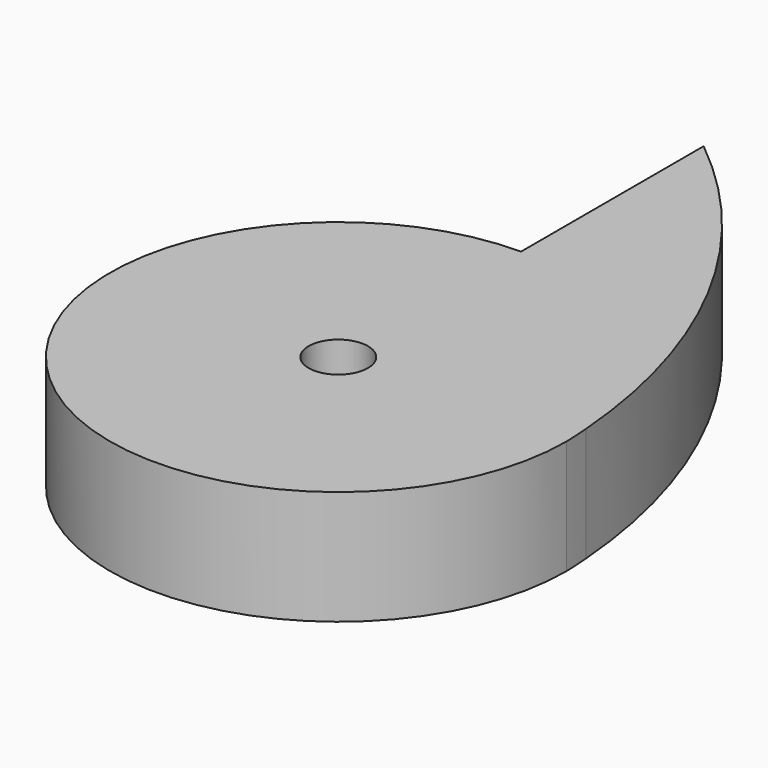
from build123d import *

# Parameters (mm, degrees)
F1_DEPTH = 12.7
F2_R     = 3.302
F3_DEPTH = 25.4


with BuildPart() as f1:
    # F0 (on Top) → F1 (new body)
    with BuildSketch(Plane.XY):
        with BuildLine():
            ThreePointArc((25.232093, 2.915727), (16.898233, 18.963379), (0, 25.4))
            ThreePointArc((0, 25.4), (-17.960512, -17.960512), (25.4, 0))
            ThreePointArc((25.4, 0), (25.331587, 1.458758), (25.232093, 2.915727))
        make_face()
        with BuildLine():
            Line((0, 50.8), (0, 25.4))
            ThreePointArc((0, 25.4), (16.898233, 18.963379), (25.232093, 2.915727))
            ThreePointArc((25.232093, 2.915727), (17.545737, 29.455509), (0, 50.8))
        make_face()
    extrude(amount=F1_DEPTH)

    # F2 (on face) → F3 (cut)
    with BuildSketch(Plane.XY.offset(12.7)):
        Circle(F2_R)
    extrude(amount=-F3_DEPTH, mode=Mode.SUBTRACT)


solid = f1.part
